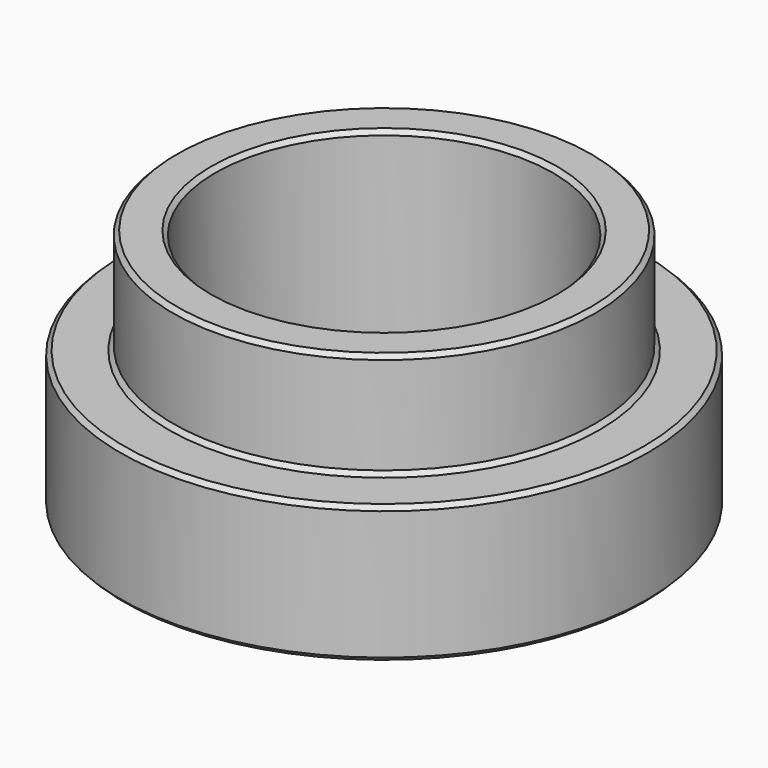
from build123d import *

# Parameters (mm, degrees)
F0_R     = 12.5
F1_DEPTH = 6.5
F2_R     = 10
F3_DEPTH = 5
F4_R     = 8
F5_DEPTH = 11.501
F6_SIZE  = 0.2


with BuildPart() as f1:
    # F0 (on Top) → F1 (new body)
    with BuildSketch(Plane.XY):
        Circle(F0_R)
    extrude(amount=F1_DEPTH)

    # F2 (on face) → F3 (join)
    with BuildSketch(Plane.XY.offset(6.5)):
        Circle(F2_R)
    extrude(amount=F3_DEPTH)

    # F4 (on face) → F5 (cut, through all)
    with BuildSketch(Plane.XY.offset(11.5)):
        Circle(F4_R)
    extrude(amount=-F5_DEPTH, mode=Mode.SUBTRACT)

    # F6
    f6_edges = [f1.edges().sort_by_distance(p)[0] for p in [
        (-10, 0, 11.5),
        (-8, 0, 11.5),
        (-12.5, 0, 6.5),
        (-10, 0, 6.5),
        (-12.5, 0, 0),
        (-8, 0, 0),
    ]]
    chamfer(f6_edges, length=F6_SIZE)


solid = f1.part
